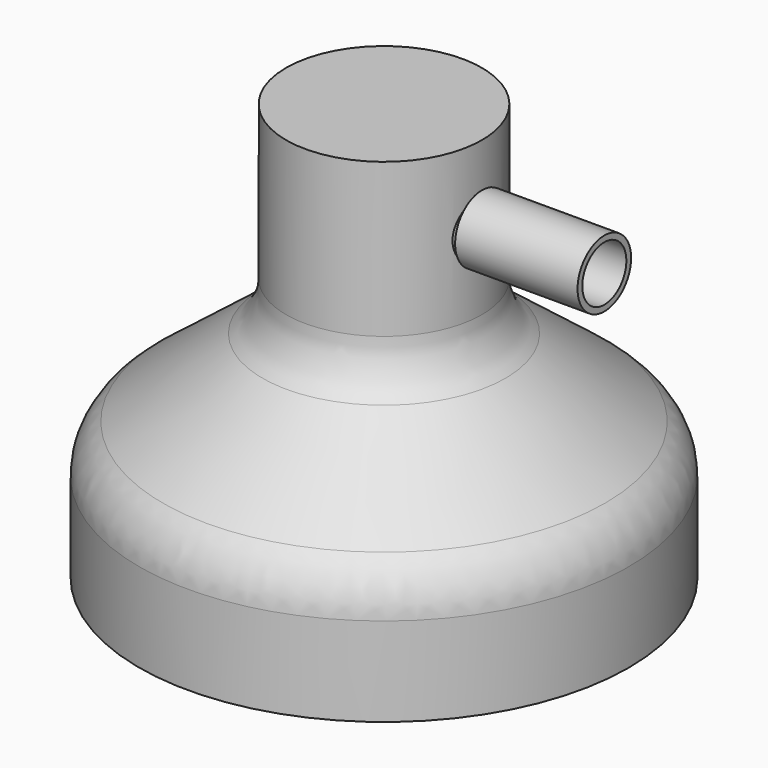
from build123d import *

# Parameters (mm, degrees)
F2_R     = 5
F5_D     = 5
F5_DEPTH = 12
F4_R     = 2.7365
F4_R_2   = 2.25
F6_DEPTH = 10
F7_R     = 5


with BuildPart() as f1:
    # F0 (on Front) → F1 (revolve)
    with BuildSketch(Plane.XZ):
        Polygon((-8, 14.041387), (-20, 4.706839), (-6.154701, 4.706839), (-3.07735, 10.036966), (-3.07735, 14.034189), (-3.07735, 14.041387), align=None)
        Polygon((-6.154701, 4.706839), (-20, 4.706839), (-20, -5), (-19, -5), (-19, 3.706839), (-5, 3.706839), (-5, 4.706839), (-2.5, 9.036966), (-2.5, 10.036966), (-2.5, 13.44305), (-2.5, 15.041387), (-7, 15.041387), (-7, 28.041387), (0, 28.041387), (0, 29.041387), (-8, 29.041387), (-8, 14.041387), (-3.07735, 14.041387), (-3.07735, 14.034189), (-3.07735, 10.036966), align=None)
    revolve(axis=Axis((0, 0, 28.541387), (0, 0, -1)))

    # F2
    f2_edges = [f1.edges().sort_by_distance(p)[0] for p in [
        (8, 0, 14.041387),
    ]]
    fillet(f2_edges, radius=F2_R)

    # F5
    with Locations(Plane.YZ.offset(8)):
        with Locations((0, 22.70342)):
            Hole(F5_D / 2, depth=F5_DEPTH)

    # F7
    f7_edges = [f1.edges().sort_by_distance(p)[0] for p in [
        (20, 0, 4.706839),
    ]]
    fillet(f7_edges, radius=F7_R)


with BuildPart() as f6:
    # F4 (on offset) → F6 (new body)
    with BuildSketch(Plane.YZ.offset(8)):
        with Locations((0, 22.70342)):
            Circle(F4_R)
        with Locations((0, 22.70342)):
            Circle(F4_R_2, mode=Mode.SUBTRACT)
    extrude(amount=F6_DEPTH)


solid = Compound([f1.part, f6.part])
